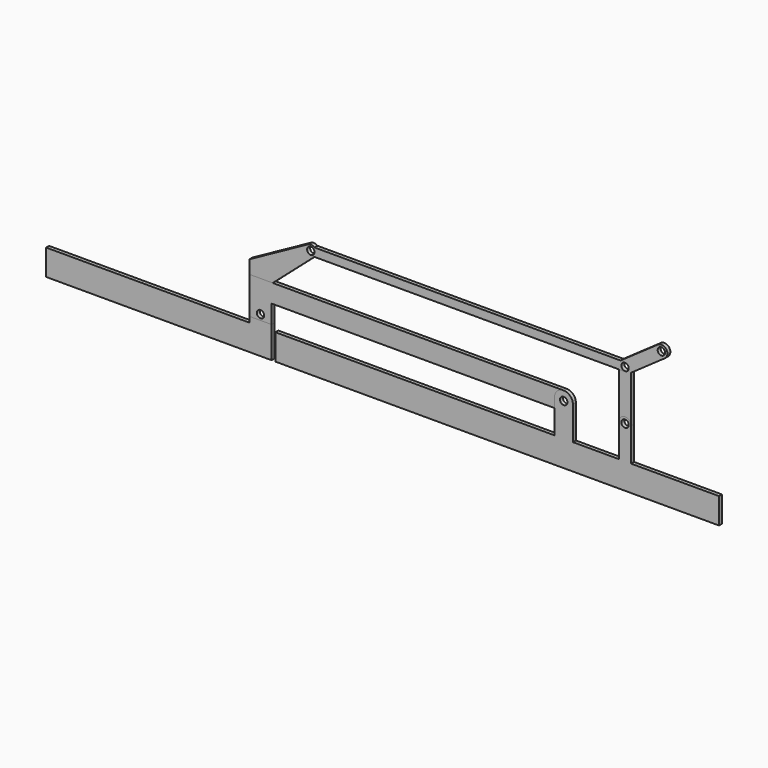
from build123d import *

# Parameters (mm, degrees)
F1_R      = 25.4
F2_DEPTH  = 25.4
F3_R      = 25.4
F4_DEPTH  = 25.4
F5_R      = 25.4
F6_DEPTH  = 25.4
F7_R      = 25.4
F8_DEPTH  = 25.4
F9_R      = 25.4
F10_DEPTH = 25.4
F11_W     = 1397
F11_H     = 177.8
F12_DEPTH = 25.4


with BuildPart() as f2:
    # F1 (on Front) → F2 (new body)
    with BuildSketch(Plane.XZ):
        with BuildLine():
            Line((-2428.187268, 56.519093), (-2133.899062, 314.237255))
            ThreePointArc((-2133.899062, 314.237255), (-2127.790307, 364.753262), (-2177.349143, 376.290402))
            Line((-2177.349143, 376.290402), (-2580.587268, 154.697556))
            Line((-2580.587268, 154.697556), (-2580.587268, -406.4))
            Line((-2580.587268, -406.4), (-2428.187268, -406.4))
            Line((-2428.187268, -406.4), (-2428.187268, 56.519093))
        make_face()
        with Locations((-2504.387268, -152.4)):
            Circle(F1_R, mode=Mode.SUBTRACT)
        with Locations((-2159, 342.9)):
            Circle(F1_R, mode=Mode.SUBTRACT)
    extrude(amount=F2_DEPTH)

    # F11 (on Front) → F12 (join)
    with BuildSketch(Plane.XZ):
        with Locations((-3279.087268, -317.5)):
            Rectangle(F11_W, F11_H)
    extrude(amount=F12_DEPTH)


with BuildPart() as f4:
    # F3 (on Front) → F4 (new body)
    with BuildSketch(Plane.XZ):
        with BuildLine():
            Line((-2428.187268, -63.5), (-421.587268, -63.5))
            ThreePointArc((-421.587268, -63.5), (-358.087268, 0), (-421.587268, 63.5))
            Line((-421.587268, 63.5), (-2580.587268, 63.5))
            Line((-2580.587268, 63.5), (-2580.587268, -190.5))
            Line((-2580.587268, -190.5), (-2428.187268, -190.5))
            Line((-2428.187268, -190.5), (-2428.187268, -63.5))
        make_face()
        with Locations((-2504.387268, -152.4)):
            Circle(F3_R, mode=Mode.SUBTRACT)
        with Locations((-421.587268, 0)):
            Circle(F3_R, mode=Mode.SUBTRACT)
    extrude(amount=F4_DEPTH)


with BuildPart() as f6:
    # F5 (on Front) → F6 (new body)
    with BuildSketch(Plane.XZ):
        with BuildLine():
            Line((41.275, 321.413595), (273.351911, 483.915597))
            ThreePointArc((273.351911, 483.915597), (283.488044, 541.400465), (226.003176, 551.536598))
            Line((226.003176, 551.536598), (-41.275, 364.386405))
            Line((-41.275, 364.386405), (-41.275, 0))
            ThreePointArc((-41.275, 0), (0, -41.275), (41.275, 0))
            Line((41.275, 0), (41.275, 321.413595))
        make_face()
        Circle(F5_R, mode=Mode.SUBTRACT)
        with Locations((0, 342.9)):
            Circle(F5_R, mode=Mode.SUBTRACT)
        with Locations((249.677543, 517.726098)):
            Circle(F5_R, mode=Mode.SUBTRACT)
    extrude(amount=F6_DEPTH)


with BuildPart() as f8:
    # F7 (on Front) → F8 (new body)
    with BuildSketch(Plane.XZ):
        with BuildLine():
            Line((0, 371.475), (-2159, 371.475))
            ThreePointArc((-2159, 371.475), (-2187.575, 342.9), (-2159, 314.325))
            Line((-2159, 314.325), (0, 314.325))
            ThreePointArc((0, 314.325), (28.575, 342.9), (0, 371.475))
        make_face()
        with Locations((-2159, 342.9)):
            Circle(F7_R, mode=Mode.SUBTRACT)
        with Locations((0, 342.9)):
            Circle(F7_R, mode=Mode.SUBTRACT)
    extrude(amount=F8_DEPTH)


with BuildPart() as f10:
    # F9 (on Front) → F10 (new body)
    with BuildSketch(Plane.XZ):
        with BuildLine():
            Line((-485.087268, -228.6), (-2402.787268, -228.6))
            Line((-2402.787268, -228.6), (-2402.787268, -406.4))
            Line((-2402.787268, -406.4), (645.212732, -406.4))
            Line((645.212732, -406.4), (645.212732, -228.6))
            Line((645.212732, -228.6), (41.275, -228.6))
            Line((41.275, -228.6), (41.275, 0))
            ThreePointArc((41.275, 0), (0, -41.275), (-41.275, 0))
            Line((-41.275, 0), (-41.275, -228.6))
            Line((-41.275, -228.6), (-358.087268, -228.6))
            Line((-358.087268, -228.6), (-358.087268, 0))
            ThreePointArc((-358.087268, 0), (-421.587268, -63.5), (-485.087268, 0))
            Line((-485.087268, 0), (-485.087268, -228.6))
        make_face()
        with BuildLine():
            ThreePointArc((-358.087268, 0), (-421.587268, 63.5), (-485.087268, 0))
            ThreePointArc((-485.087268, 0), (-421.587268, -63.5), (-358.087268, 0))
        make_face()
        with Locations((-421.587268, 0)):
            Circle(F9_R, mode=Mode.SUBTRACT)
        with BuildLine():
            ThreePointArc((-41.275, 0), (0, -41.275), (41.275, 0))
            ThreePointArc((41.275, 0), (0, 41.275), (-41.275, 0))
        make_face()
        Circle(F9_R, mode=Mode.SUBTRACT)
    extrude(amount=F10_DEPTH)


solid = Compound([f2.part, f4.part, f6.part, f8.part, f10.part])
